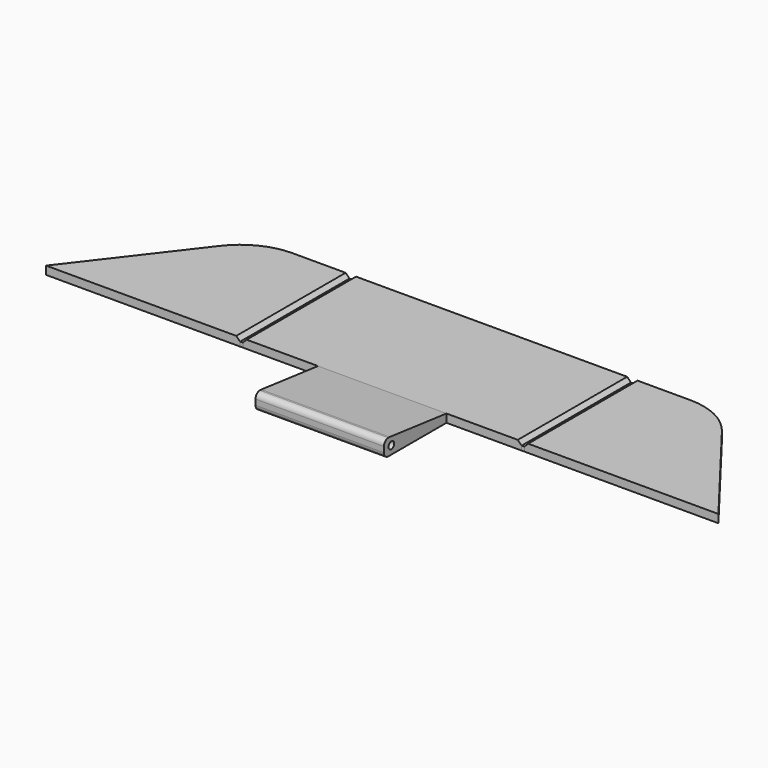
from build123d import *

# Parameters (mm, degrees)
F0_W      = 23.5
F0_H      = 14.3
F1_DEPTH  = 3
F2_R      = 0.65
F3_DEPTH  = 25
F4_R      = 1
F5_DEPTH  = 1.5
F0_W_2    = 0.5
F0_H_2    = 25
F6_DEPTH  = 0.8
F7_DEPTH  = 1.5
F8_SIZE   = 0.7
F8_2_SIZE = 0.7
F8_3_SIZE = 0.7
F9_SIZE2  = 13
F9_SIZE   = 1.5


with BuildPart() as f1:
    # F0 (on Top) → F1 (new body)
    with BuildSketch(Plane.XY):
        with Locations((0, -12.5)):
            Rectangle(F0_W, F0_H)
    extrude(amount=F1_DEPTH)

    # F2 (on face) → F3 (cut)
    with BuildSketch(Plane.YZ.offset(11.75)):
        with Locations((-17.95, 1.5)):
            Circle(F2_R)
    extrude(amount=-F3_DEPTH, mode=Mode.SUBTRACT)

    # F4
    f4_edges = [f1.edges().sort_by_distance(p)[0] for p in [
        (0, -19.65, 3),
        (0, -19.65, 0),
    ]]
    fillet(f4_edges, radius=F4_R)

    # F9
    f9_edges = [f1.edges().sort_by_distance(p)[0] for p in [
        (0, -5.35, 3),
    ]]
    f9_side = f1.faces().sort_by_distance((0, -5.35, 1.5))[0]
    chamfer(f9_edges, length=F9_SIZE, length2=F9_SIZE2, reference=f9_side)


with BuildPart() as f5:
    # F0 (on Top) → F5 (new body)
    with BuildSketch(Plane.XY):
        with BuildLine():
            Line((-61.5, -5.35), (-26, -5.35))
            Line((-26, -5.35), (-26, 19.65))
            Line((-26, 19.65), (-36.378023244, 19.65))
            ThreePointArc((-36.378023244, 19.65), (-41.6819771329, 18.4142033214), (-45.8934962553, 14.961345524))
            Line((-45.8934962553, 14.961345524), (-61.5, -5.35))
        make_face()
    extrude(amount=F5_DEPTH)

    # F8#2
    f8_2_edges = [f5.edges().sort_by_distance(p)[0] for p in [
        (-26, 7.15, 1.5),
    ]]
    chamfer(f8_2_edges, length=F8_2_SIZE)


with BuildPart() as f5b:
    # F0 (on Top) → F5, piece 2 (new body)
    with BuildSketch(Plane.XY):
        with BuildLine():
            Line((26, 19.65), (26, -5.35))
            Line((26, -5.35), (61.5, -5.35))
            Line((61.5, -5.35), (45.8934962553, 14.961345524))
            ThreePointArc((45.8934962553, 14.961345524), (41.6819771329, 18.4142033214), (36.378023244, 19.65))
            Line((36.378023244, 19.65), (26, 19.65))
        make_face()
    extrude(amount=F5_DEPTH)

    # F8#3
    f8_3_edges = [f5b.edges().sort_by_distance(p)[0] for p in [
        (26, 7.15, 1.5),
    ]]
    chamfer(f8_3_edges, length=F8_3_SIZE)


with BuildPart() as f6:
    # F0 (on Top) → F6 (new body)
    with BuildSketch(Plane.XY):
        with Locations((-25.75, 7.15)):
            Rectangle(F0_W_2, F0_H_2)
    extrude(amount=F6_DEPTH)


with BuildPart() as f6b:
    # F0 (on Top) → F6, piece 2 (new body)
    with BuildSketch(Plane.XY):
        with Locations((25.75, 7.15)):
            Rectangle(F0_W_2, F0_H_2)
    extrude(amount=F6_DEPTH)


with BuildPart() as f7:
    # F0 (on Top) → F7 (new body)
    with BuildSketch(Plane.XY):
        Polygon((-25.5, -5.35), (-11.75, -5.35), (11.75, -5.35), (25.5, -5.35), (25.5, 19.65), (11.75, 19.65), (-11.75, 19.65), (-25.5, 19.65), align=None)
    extrude(amount=F7_DEPTH)

    # F8
    f8_edges = [f7.edges().sort_by_distance(p)[0] for p in [
        (-25.5, 7.15, 1.5),
        (25.5, 7.15, 1.5),
    ]]
    chamfer(f8_edges, length=F8_SIZE)


solid = Compound([f1.part, f5.part, f5b.part, f6.part, f6b.part, f7.part])
